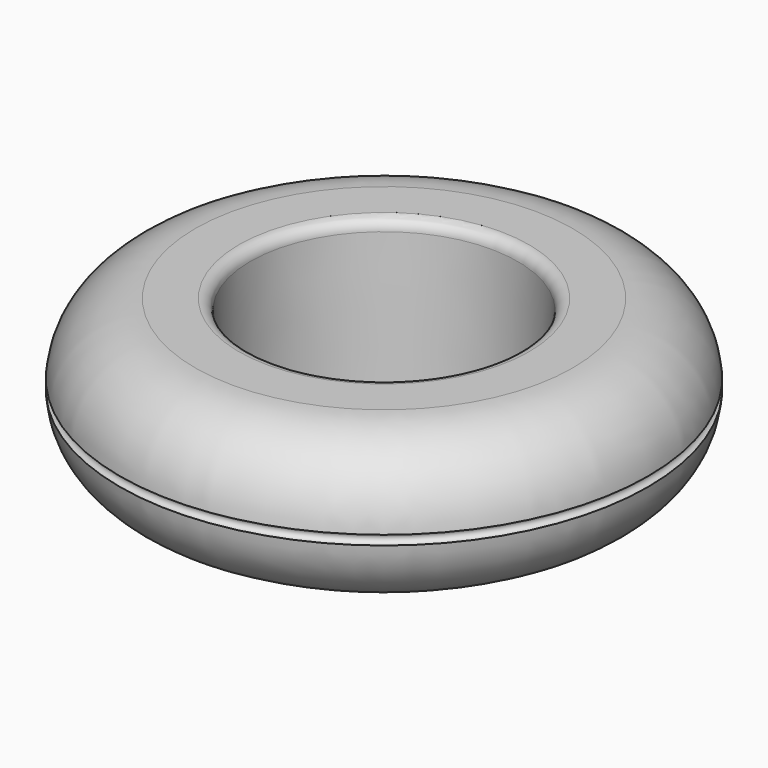
from build123d import *

# Parameters (mm, degrees)
F2_R = 3


with BuildPart() as f1:
    # F0 (on Front) → F1 (revolve)
    with BuildSketch(Plane.XZ):
        with BuildLine():
            Line((-50, 0), (0, 0))
            Line((0, 0), (0, 1.5))
            Line((0, 1.5), (-34.5, 1.5))
            Line((-34.5, 1.5), (-35.5, 40))
            Line((-35.5, 40), (-50, 40))
            ThreePointArc((-50, 40), (-63.693287, 34.57717), (-69.960938, 21.249389))
            ThreePointArc((-69.960938, 21.249389), (-68.75, 20), (-69.960938, 18.750611))
            ThreePointArc((-69.960938, 18.750611), (-63.693287, 5.42283), (-50, 0))
        make_face()
    revolve(axis=Axis((0, 0, 20), (0, 0, 1)))

    # F2
    f2_edges = [f1.edges().sort_by_distance(p)[0] for p in [
        (35.5, 0, 40),
    ]]
    fillet(f2_edges, radius=F2_R)


solid = f1.part
